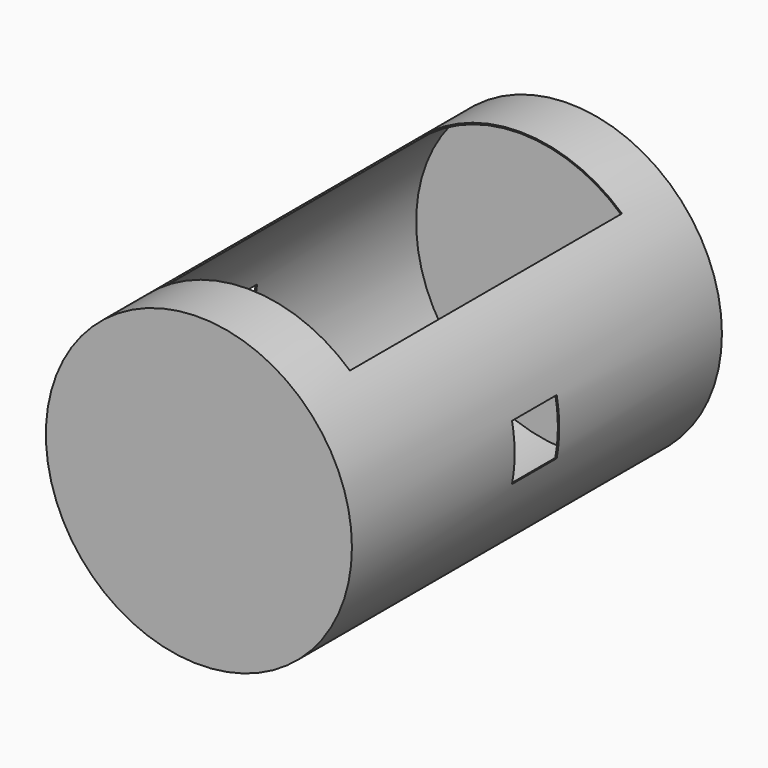
from build123d import *

# Parameters (mm, degrees)
F0_R          = 285.75
F1_DEPTH      = 431.8
F2_W          = 381
F2_H          = 635
F3_DEPTH      = 452.12
F4_T          = -2.54
F5_W          = 104.14
F5_H          = 104.14
F6_DEPTH      = 285.751
F6_DEPTH_BACK = 285.751


with BuildPart() as f1:
    # F0 (on Front) → F1 (new body, symmetric)
    with BuildSketch(Plane.XZ):
        Circle(F0_R)
    extrude(amount=F1_DEPTH, both=True)

    # F2 (on Top) → F3 (cut)
    with BuildSketch(Plane.XY):
        Rectangle(F2_W, F2_H)
    extrude(amount=F3_DEPTH, mode=Mode.SUBTRACT)

    # F4
    f4_openings = [f1.faces().sort_by_distance(p)[0] for p in [
        (0, 317.5, 132.295443),
        (-190.5, 0, 106.492737),
        (0, 0, 0),
        (0, -317.5, 132.295443),
        (190.5, 0, 106.492737),
    ]]
    offset(amount=F4_T, openings=f4_openings)

    # F5 (on Right) → F6 (cut, two sides)
    with BuildSketch(Plane.YZ) as f6_sk:
        Rectangle(F5_W, F5_H)
    extrude(amount=-F6_DEPTH, mode=Mode.SUBTRACT)
    extrude(f6_sk.sketch, amount=F6_DEPTH_BACK, mode=Mode.SUBTRACT)


solid = f1.part
